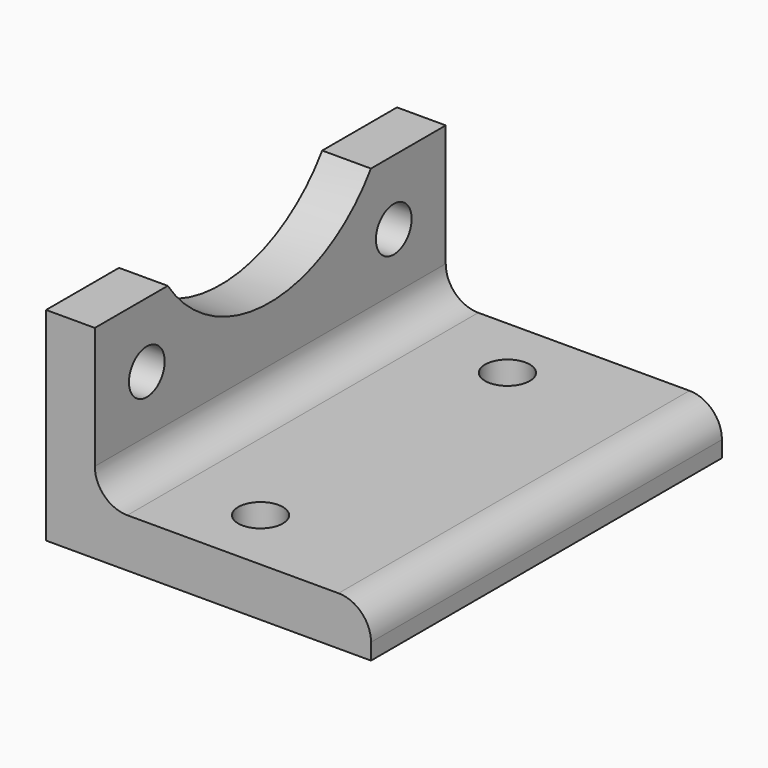
from build123d import *

# Parameters (mm, degrees)
F1_DEPTH = 54
F2_R     = 4
F3_R     = 4
F6_DEPTH = 30
F7_D     = 5.5
F7_DEPTH = 25
F7_TIP   = 1.6523667023
F9_D     = 5.5
F9_DEPTH = 25
F9_TIP   = 1.6523667023


with BuildPart() as f1:
    # F0 (on Front) → F1 (new body)
    with BuildSketch(Plane.XZ):
        Polygon((0, 25), (0, 0), (40, 0), (40, 6), (6, 6), (6, 25), align=None)
    extrude(amount=F1_DEPTH)

    # F2
    f2_edges = [f1.edges().sort_by_distance(p)[0] for p in [
        (40, -27, 6),
    ]]
    fillet(f2_edges, radius=F2_R)

    # F3
    f3_edges = [f1.edges().sort_by_distance(p)[0] for p in [
        (6, -27, 6),
    ]]
    fillet(f3_edges, radius=F3_R)

    # F5 (on face) → F6 (cut)
    with BuildSketch(Plane(origin=(0, 0, 0), x_dir=(0, -1, 0), z_dir=(-1, 0, 0))):
        with BuildLine():
            Line((42.7775105486, 25), (11.508336102, 25))
            ThreePointArc((11.508336102, 25), (27.1429233253, 16.7962809503), (42.7775105486, 25))
        make_face()
        with BuildLine():
            ThreePointArc((42.7775105486, 25), (45.2820682506, 30.1419532821), (46.1429233253, 35.7962809503))
            ThreePointArc((46.1429233253, 35.7962809503), (21.4885956571, 53.9354258756), (11.508336102, 25))
            Line((11.508336102, 25), (42.7775105486, 25))
        make_face()
    extrude(amount=-F6_DEPTH, mode=Mode.SUBTRACT)

    # F7
    with Locations(Plane(origin=(0, 0, 0), x_dir=(0, 1, 0), z_dir=(-1, 0, 0))):
        with Locations((-8, -17), (-46, -17)):
            Hole(F7_D / 2, depth=F7_DEPTH)
            with Locations((0, 0, -(F7_DEPTH + F7_TIP / 2))):  # 118° drill point
                Cone(0, F7_D / 2, F7_TIP, mode=Mode.SUBTRACT)

    # F9
    with Locations(Plane(origin=(0, 0, 0), x_dir=(1, 0, 0), z_dir=(0, 0, -1))):
        with Locations((20, 46), (20, 8)):
            Hole(F9_D / 2, depth=F9_DEPTH)
            with Locations((0, 0, -(F9_DEPTH + F9_TIP / 2))):  # 118° drill point
                Cone(0, F9_D / 2, F9_TIP, mode=Mode.SUBTRACT)


solid = f1.part
